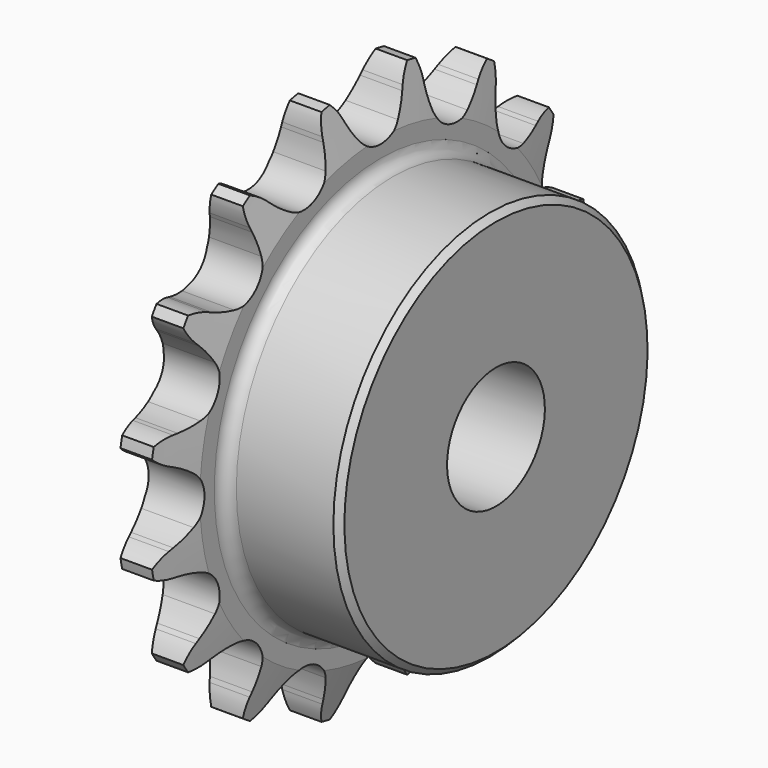
from build123d import *

# Parameters (mm, degrees)
F0_W     = 7.239
F0_H     = 10.287
F0_H_2   = 17.4625
F0_W_2   = 14.986
F2_R     = 1.5875
F3_SIZE  = 0.79375
F4_SIZE2 = 6.35
F4_SIZE  = 1.57
F6_DEPTH = 25.4


with BuildPart() as f1:
    # F0 (on Front) → F1 (revolve)
    with BuildSketch(Plane.XZ):
        with Locations((-20.3618284734, 30.5435)):
            Rectangle(F0_W, F0_H)
        with Locations((-20.3618284734, 16.66875)):
            Rectangle(F0_W, F0_H_2)
        with Locations((-9.2493284734, 16.66875)):
            Rectangle(F0_W_2, F0_H_2)
    revolve(axis=Axis((-12.8688284734, 0, 0), (1, 0, 0)))

    # F2
    f2_edges = [f1.edges().sort_by_distance(p)[0] for p in [
        (-16.742328, 0, -25.4),
    ]]
    fillet(f2_edges, radius=F2_R)

    # F3
    f3_edges = [f1.edges().sort_by_distance(p)[0] for p in [
        (-1.756328, 0, -25.4),
    ]]
    chamfer(f3_edges, length=F3_SIZE)

    # F4
    f4_edges = [f1.edges().sort_by_distance(p)[0] for p in [
        (-16.742328, 0, -35.687),
        (-23.981328, 0, -35.687),
    ]]
    f4_side = f1.faces().sort_by_distance((-20.361828, 0, -35.687))[0]
    chamfer(f4_edges, length=F4_SIZE, length2=F4_SIZE2, reference=f4_side)

    # F5 (on face) → F6 (intersect)
    with BuildSketch(Plane(origin=(-23.9813284734, 0, 0), x_dir=(0, -1, 0), z_dir=(-1, 0, 0))):
        with BuildLine():
            ThreePointArc((-3.0902142758, 30.0699408338), (-3.9286984595, 31.2618772931), (-4.6100577676, 32.5501))
            Line((-4.6100577676, 32.5501), (-4.8569908757, 33.0982711732))
            ThreePointArc((-4.8569908757, 33.0982711732), (-5.8047735177, 34.6127415201), (-7.1244539591, 35.8170487486))
            ThreePointArc((-7.1244539591, 35.8170487486), (-7.8828112846, 34.1993941084), (-8.1788855583, 32.4375052377))
            Line((-8.1788855583, 32.4375052377), (-8.1972459767, 31.8365639011))
            ThreePointArc((-8.1972459767, 31.8365639011), (-8.3337584085, 30.3856563902), (-8.6522824488, 28.963576686))
            ThreePointArc((-8.6522824488, 28.963576686), (-10.9400391594, 26.4115909116), (-14.3622538898, 26.5984290744))
            ThreePointArc((-14.3622538898, 26.5984290744), (-15.5930466009, 27.3787607677), (-16.715522007, 28.3081784413))
            Line((-16.715522007, 28.3081784413), (-17.1534344776, 28.7201253592))
            ThreePointArc((-17.1534344776, 28.7201253592), (-18.6086341724, 29.7566128007), (-20.2887283455, 30.364227759))
            ThreePointArc((-20.2887283455, 30.364227759), (-20.3703095267, 28.579498962), (-19.9696008078, 26.8384231765))
            Line((-19.9696008078, 26.8384231765), (-19.7565933292, 26.2761995474))
            ThreePointArc((-19.7565933292, 26.2761995474), (-19.3274761046, 24.8834947485), (-19.0775476037, 23.4477705432))
            ThreePointArc((-19.0775476037, 23.4477705432), (-20.2145565285, 20.2145565285), (-23.4477705432, 19.0775476037))
            ThreePointArc((-23.4477705432, 19.0775476037), (-24.8834947485, 19.3274761046), (-26.2761995474, 19.7565933292))
            Line((-26.2761995474, 19.7565933292), (-26.8384231765, 19.9696008078))
            ThreePointArc((-26.8384231765, 19.9696008078), (-28.579498962, 20.3703095267), (-30.364227759, 20.2887283455))
            ThreePointArc((-30.364227759, 20.2887283455), (-29.7566128007, 18.6086341724), (-28.7201253592, 17.1534344776))
            Line((-28.7201253592, 17.1534344776), (-28.3081784413, 16.715522007))
            ThreePointArc((-28.3081784413, 16.715522007), (-27.3787607677, 15.5930466009), (-26.5984290744, 14.3622538898))
            ThreePointArc((-26.5984290744, 14.3622538898), (-26.4115909116, 10.9400391594), (-28.963576686, 8.6522824488))
            ThreePointArc((-28.963576686, 8.6522824488), (-30.3856563902, 8.3337584085), (-31.8365639011, 8.1972459767))
            Line((-31.8365639011, 8.1972459767), (-32.4375052377, 8.1788855583))
            ThreePointArc((-32.4375052377, 8.1788855583), (-34.1993941084, 7.8828112846), (-35.8170487486, 7.1244539591))
            ThreePointArc((-35.8170487486, 7.1244539591), (-34.6127415201, 5.8047735177), (-33.0982711732, 4.8569908757))
            Line((-33.0982711732, 4.8569908757), (-32.5501, 4.6100577676))
            ThreePointArc((-32.5501, 4.6100577676), (-31.2618772931, 3.9286984595), (-30.0699408338, 3.0902142758))
            ThreePointArc((-30.0699408338, 3.0902142758), (-28.5877, 0), (-30.0699408338, -3.0902142758))
            ThreePointArc((-30.0699408338, -3.0902142758), (-31.2618772931, -3.9286984595), (-32.5501, -4.6100577676))
            Line((-32.5501, -4.6100577676), (-33.0982711732, -4.8569908757))
            ThreePointArc((-33.0982711732, -4.8569908757), (-34.6127415201, -5.8047735177), (-35.8170487486, -7.1244539591))
            ThreePointArc((-35.8170487486, -7.1244539591), (-34.1993941084, -7.8828112846), (-32.4375052377, -8.1788855583))
            Line((-32.4375052377, -8.1788855583), (-31.8365639011, -8.1972459767))
            ThreePointArc((-31.8365639011, -8.1972459767), (-30.3856563902, -8.3337584085), (-28.963576686, -8.6522824488))
            ThreePointArc((-28.963576686, -8.6522824488), (-26.4115909116, -10.9400391594), (-26.5984290744, -14.3622538898))
            ThreePointArc((-26.5984290744, -14.3622538898), (-27.3787607677, -15.5930466009), (-28.3081784413, -16.715522007))
            Line((-28.3081784413, -16.715522007), (-28.7201253592, -17.1534344776))
            ThreePointArc((-28.7201253592, -17.1534344776), (-29.7566128007, -18.6086341724), (-30.364227759, -20.2887283455))
            ThreePointArc((-30.364227759, -20.2887283455), (-28.579498962, -20.3703095267), (-26.8384231765, -19.9696008078))
            Line((-26.8384231765, -19.9696008078), (-26.2761995474, -19.7565933292))
            ThreePointArc((-26.2761995474, -19.7565933292), (-24.8834947485, -19.3274761046), (-23.4477705432, -19.0775476037))
            ThreePointArc((-23.4477705432, -19.0775476037), (-20.2145565285, -20.2145565285), (-19.0775476037, -23.4477705432))
            ThreePointArc((-19.0775476037, -23.4477705432), (-19.3274761046, -24.8834947485), (-19.7565933292, -26.2761995474))
            Line((-19.7565933292, -26.2761995474), (-19.9696008078, -26.8384231765))
            ThreePointArc((-19.9696008078, -26.8384231765), (-20.3703095267, -28.579498962), (-20.2887283455, -30.364227759))
            ThreePointArc((-20.2887283455, -30.364227759), (-18.6086341724, -29.7566128007), (-17.1534344776, -28.7201253592))
            Line((-17.1534344776, -28.7201253592), (-16.715522007, -28.3081784413))
            ThreePointArc((-16.715522007, -28.3081784413), (-15.5930466009, -27.3787607677), (-14.3622538898, -26.5984290744))
            ThreePointArc((-14.3622538898, -26.5984290744), (-10.9400391594, -26.4115909116), (-8.6522824488, -28.963576686))
            ThreePointArc((-8.6522824488, -28.963576686), (-8.3337584085, -30.3856563902), (-8.1972459767, -31.8365639011))
            Line((-8.1972459767, -31.8365639011), (-8.1788855583, -32.4375052377))
            ThreePointArc((-8.1788855583, -32.4375052377), (-7.8828112846, -34.1993941084), (-7.1244539591, -35.8170487486))
            ThreePointArc((-7.1244539591, -35.8170487486), (-5.8047735177, -34.6127415201), (-4.8569908757, -33.0982711732))
            Line((-4.8569908757, -33.0982711732), (-4.6100577676, -32.5501))
            ThreePointArc((-4.6100577676, -32.5501), (-3.9286984595, -31.2618772931), (-3.0902142758, -30.0699408338))
            ThreePointArc((-3.0902142758, -30.0699408338), (0, -28.5877), (3.0902142758, -30.0699408338))
            ThreePointArc((3.0902142758, -30.0699408338), (3.9286984595, -31.2618772931), (4.6100577676, -32.5501))
            Line((4.6100577676, -32.5501), (4.8569908757, -33.0982711732))
            ThreePointArc((4.8569908757, -33.0982711732), (5.8047735177, -34.6127415201), (7.1244539591, -35.8170487486))
            ThreePointArc((7.1244539591, -35.8170487486), (7.8828112846, -34.1993941084), (8.1788855583, -32.4375052377))
            Line((8.1788855583, -32.4375052377), (8.1972459767, -31.8365639011))
            ThreePointArc((8.1972459767, -31.8365639011), (8.3337584085, -30.3856563902), (8.6522824488, -28.963576686))
            ThreePointArc((8.6522824488, -28.963576686), (10.9400391594, -26.4115909116), (14.3622538898, -26.5984290744))
            ThreePointArc((14.3622538898, -26.5984290744), (15.5930466009, -27.3787607677), (16.715522007, -28.3081784413))
            Line((16.715522007, -28.3081784413), (17.1534344776, -28.7201253592))
            ThreePointArc((17.1534344776, -28.7201253592), (18.6086341724, -29.7566128007), (20.2887283455, -30.364227759))
            ThreePointArc((20.2887283455, -30.364227759), (20.3703095267, -28.579498962), (19.9696008078, -26.8384231765))
            Line((19.9696008078, -26.8384231765), (19.7565933292, -26.2761995474))
            ThreePointArc((19.7565933292, -26.2761995474), (19.3274761046, -24.8834947485), (19.0775476037, -23.4477705432))
            ThreePointArc((19.0775476037, -23.4477705432), (20.2145565285, -20.2145565285), (23.4477705432, -19.0775476037))
            ThreePointArc((23.4477705432, -19.0775476037), (24.8834947485, -19.3274761046), (26.2761995474, -19.7565933292))
            Line((26.2761995474, -19.7565933292), (26.8384231765, -19.9696008078))
            ThreePointArc((26.8384231765, -19.9696008078), (28.579498962, -20.3703095267), (30.364227759, -20.2887283455))
            ThreePointArc((30.364227759, -20.2887283455), (29.7566128007, -18.6086341724), (28.7201253592, -17.1534344776))
            Line((28.7201253592, -17.1534344776), (28.3081784413, -16.715522007))
            ThreePointArc((28.3081784413, -16.715522007), (27.3787607677, -15.5930466009), (26.5984290744, -14.3622538898))
            ThreePointArc((26.5984290744, -14.3622538898), (26.4115909116, -10.9400391594), (28.963576686, -8.6522824488))
            ThreePointArc((28.963576686, -8.6522824488), (30.3856563902, -8.3337584085), (31.8365639011, -8.1972459767))
            Line((31.8365639011, -8.1972459767), (32.4375052377, -8.1788855583))
            ThreePointArc((32.4375052377, -8.1788855583), (34.1993941084, -7.8828112846), (35.8170487486, -7.1244539591))
            ThreePointArc((35.8170487486, -7.1244539591), (34.6127415201, -5.8047735177), (33.0982711732, -4.8569908757))
            Line((33.0982711732, -4.8569908757), (32.5501, -4.6100577676))
            ThreePointArc((32.5501, -4.6100577676), (31.2618772931, -3.9286984595), (30.0699408338, -3.0902142758))
            ThreePointArc((30.0699408338, -3.0902142758), (28.5877, 0), (30.0699408338, 3.0902142758))
            ThreePointArc((30.0699408338, 3.0902142758), (31.2618772931, 3.9286984595), (32.5501, 4.6100577676))
            Line((32.5501, 4.6100577676), (33.0982711732, 4.8569908757))
            ThreePointArc((33.0982711732, 4.8569908757), (34.6127415201, 5.8047735177), (35.8170487486, 7.1244539591))
            ThreePointArc((35.8170487486, 7.1244539591), (34.1993941084, 7.8828112846), (32.4375052377, 8.1788855583))
            Line((32.4375052377, 8.1788855583), (31.8365639011, 8.1972459767))
            ThreePointArc((31.8365639011, 8.1972459767), (30.3856563902, 8.3337584085), (28.963576686, 8.6522824488))
            ThreePointArc((28.963576686, 8.6522824488), (26.4115909116, 10.9400391594), (26.5984290744, 14.3622538898))
            ThreePointArc((26.5984290744, 14.3622538898), (27.3787607677, 15.5930466009), (28.3081784413, 16.715522007))
            Line((28.3081784413, 16.715522007), (28.7201253592, 17.1534344776))
            ThreePointArc((28.7201253592, 17.1534344776), (29.7566128007, 18.6086341724), (30.364227759, 20.2887283455))
            ThreePointArc((30.364227759, 20.2887283455), (28.579498962, 20.3703095267), (26.8384231765, 19.9696008078))
            Line((26.8384231765, 19.9696008078), (26.2761995474, 19.7565933292))
            ThreePointArc((26.2761995474, 19.7565933292), (24.8834947485, 19.3274761046), (23.4477705432, 19.0775476037))
            ThreePointArc((23.4477705432, 19.0775476037), (20.2145565285, 20.2145565285), (19.0775476037, 23.4477705432))
            ThreePointArc((19.0775476037, 23.4477705432), (19.3274761046, 24.8834947485), (19.7565933292, 26.2761995474))
            Line((19.7565933292, 26.2761995474), (19.9696008078, 26.8384231765))
            ThreePointArc((19.9696008078, 26.8384231765), (20.3703095267, 28.579498962), (20.2887283455, 30.364227759))
            ThreePointArc((20.2887283455, 30.364227759), (18.6086341724, 29.7566128007), (17.1534344776, 28.7201253592))
            Line((17.1534344776, 28.7201253592), (16.715522007, 28.3081784413))
            ThreePointArc((16.715522007, 28.3081784413), (15.5930466009, 27.3787607677), (14.3622538898, 26.5984290744))
            ThreePointArc((14.3622538898, 26.5984290744), (10.9400391594, 26.4115909116), (8.6522824488, 28.963576686))
            ThreePointArc((8.6522824488, 28.963576686), (8.3337584085, 30.3856563902), (8.1972459767, 31.8365639011))
            Line((8.1972459767, 31.8365639011), (8.1788855583, 32.4375052377))
            ThreePointArc((8.1788855583, 32.4375052377), (7.8828112846, 34.1993941084), (7.1244539591, 35.8170487486))
            ThreePointArc((7.1244539591, 35.8170487486), (5.8047735177, 34.6127415201), (4.8569908757, 33.0982711732))
            Line((4.8569908757, 33.0982711732), (4.6100577676, 32.5501))
            ThreePointArc((4.6100577676, 32.5501), (3.9286984595, 31.2618772931), (3.0902142758, 30.0699408338))
            ThreePointArc((3.0902142758, 30.0699408338), (0, 28.5877), (-3.0902142758, 30.0699408338))
        make_face()
    extrude(amount=-F6_DEPTH, mode=Mode.INTERSECT)


solid = f1.part
